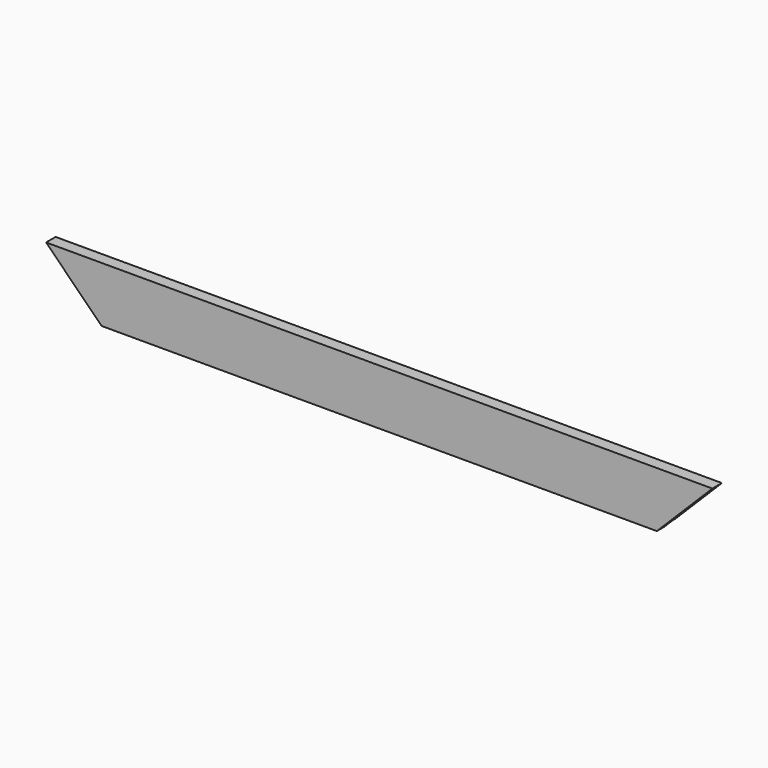
from build123d import *

# Parameters (mm, degrees)
F0_W     = 1066.8
F0_H     = 88.9
F1_DEPTH = 19.05
F2_W     = 4.7625
F2_H     = 13.97
F3_DEPTH = 1066.801
F5_DEPTH = 19.051


with BuildPart() as f1:
    # F0 (on Front) → F1 (new body)
    with BuildSketch(Plane.XZ):
        with Locations((0, 44.45)):
            Rectangle(F0_W, F0_H)
    extrude(amount=F1_DEPTH)

    # F2 (on face) → F3 (cut, through all)
    with BuildSketch(Plane.YZ.offset(533.4)):
        with Locations((-2.38125, 6.985)):
            Rectangle(F2_W, F2_H)
    extrude(amount=-F3_DEPTH, mode=Mode.SUBTRACT)

    # F4 (on face) → F5 (cut, through all)
    with BuildSketch(Plane.XZ.offset(19.05)):
        Polygon((-444.5, 0), (-533.4, 88.9), (-533.4, 0), align=None)
        Polygon((444.5, 0), (533.4, 0), (533.4, 88.9), align=None)
    extrude(amount=-F5_DEPTH, mode=Mode.SUBTRACT)


solid = f1.part
